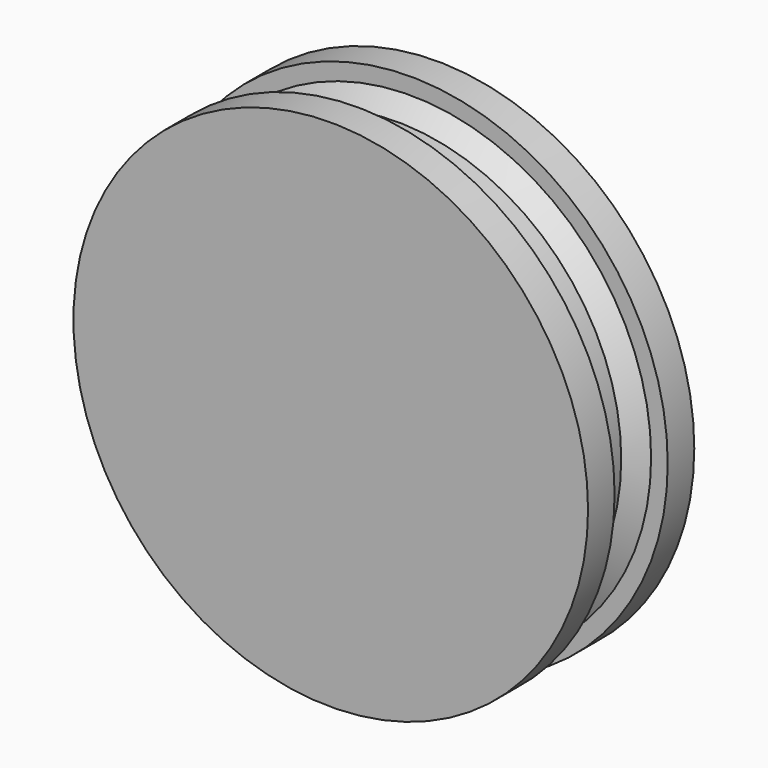
from build123d import *

# Parameters (mm, degrees)
CYLINDER033_R         = 15.5
CYLINDER033_DEPTH     = 2
CYLINDER032_R         = 13.5
CYLINDER032_DEPTH     = 5
CYLINDER034_R         = 15.5
CYLINDER034_DEPTH     = 2
EXTRUDE001_DEPTH      = 7
CYLINDER031_R         = 6
CYLINDER031_DEPTH     = 14
CHAMFER005_SIZE       = 1
CHAMFER005_ROLL_ANGLE = 90


with BuildPart() as cilindro030:
    # Cylinder033 → Cylinder033 (new body)
    with BuildSketch(Plane(origin=(-1, 25, 36), x_dir=(1, 0, 0), z_dir=(0, 0, 1))):
        Circle(CYLINDER033_R)
    extrude(amount=CYLINDER033_DEPTH)


with BuildPart() as cilindro029:
    # Cylinder032 → Cylinder032 (new body)
    with BuildSketch(Plane(origin=(-1, 25, 31), x_dir=(1, 0, 0), z_dir=(0, 0, 1))):
        Circle(CYLINDER032_R)
    extrude(amount=CYLINDER032_DEPTH)


with BuildPart() as cilindro031:
    # Cylinder034 → Cylinder034 (new body)
    with BuildSketch(Plane(origin=(-1, 25, 30), x_dir=(1, 0, 0), z_dir=(0, 0, 1))):
        Circle(CYLINDER034_R)
    extrude(amount=CYLINDER034_DEPTH)


with BuildPart() as extrude001:
    # Sketch001 → Extrude001 (new body)
    with BuildSketch(Plane.XY):
        with BuildLine():
            Line((-2.060088, 8.599999), (2.000001, 8.599999))
            ThreePointArc((2.000001, 5.404159), (2.598634, 7.002079), (2.000001, 8.599999))
            Line((2.000001, 5.404159), (-2.060088, 5.404159))
            ThreePointArc((-2.060088, 8.599999), (-2.651924, 7.002079), (-2.060088, 5.404159))
        make_face()
    extrude(amount=EXTRUDE001_DEPTH)


with BuildPart() as extrude001_1:
    # Extrude001 placement: moved
    add(extrude001.part.moved(Location((-1, 18, 24))))


with BuildPart() as polea_motor:
    # Cylinder031 → Cylinder031 (new body)
    with BuildSketch(Plane(origin=(-1, 25, 24), x_dir=(1, 0, 0), z_dir=(0, 0, 1))):
        Circle(CYLINDER031_R)
    extrude(amount=CYLINDER031_DEPTH)

    # Cut027: cut Extrude001
    add(extrude001_1.part, mode=Mode.SUBTRACT)

    # Fusion005: union Cilindro030, Cilindro029, Cilindro031
    add(cilindro030.part)
    add(cilindro029.part)
    add(cilindro031.part)

    # Chamfer005
    chamfer005_edges = [polea_motor.edges().sort_by_distance(p)[0] for p in [
        (-14.5, 25, 32),
    ]]
    chamfer(chamfer005_edges, length=CHAMFER005_SIZE)


with BuildPart() as polea_motor_1:
    # Chamfer005 roll: moved
    add(polea_motor.part.rotate(Axis((0, 0, 0), (1, 0, 0)), CHAMFER005_ROLL_ANGLE))


with BuildPart() as polea_motor_2:
    # Chamfer005 placement: moved
    add(polea_motor_1.part.moved(Location((89, -6, -33.5))))


solid = polea_motor_2.part
